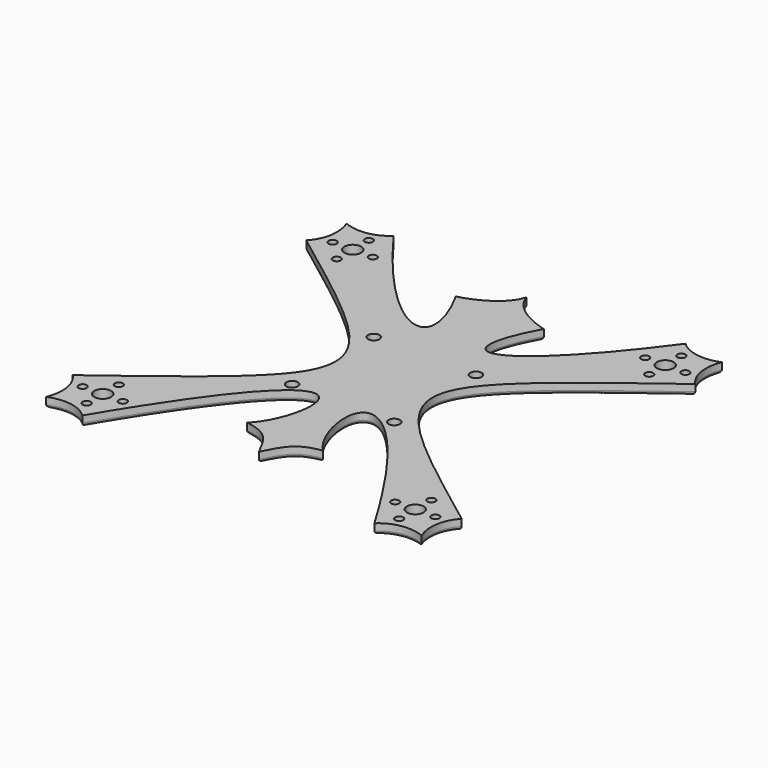
from build123d import *

# Parameters (mm, degrees)
F0_R     = 1.2
F0_R_2   = 2.5
F0_R_3   = 1.7
F1_DEPTH = 3
F2_R     = 1


with BuildPart() as f1:
    # F0 (on Top) → F1 (new body)
    with BuildSketch(Plane.XY):
        with BuildLine():
            add(Edge.make_bspline(
                [(0, 53.212047), (1.509074, 47.794189), (8.439403, 44.375323), (13.141073, 43.245103)],
                knots=[0, 0, 0, 0, 16.493264, 16.493264, 16.493264, 16.493264], degree=3))
            add(Edge.make_bspline(
                [(0, 53.212047), (-1.509074, 47.794189), (-8.439403, 44.375323), (-13.141073, 43.245103)],
                knots=[0, 0, 0, 0, 16.493264, 16.493264, 16.493264, 16.493264], degree=3))
            add(Edge.make_bspline(
                [(-13.141073, 43.245103), (0, 19.25474), (-13.632392, 17.137229), (-43.599002, 58.096636)],
                knots=[0, 0, 0, 0, 33.885889, 33.885889, 33.885889, 33.885889], degree=3))
            add(Edge.make_bspline(
                [(-43.599002, 58.096636), (-47.079999, 54.727927), (-52.244078, 54.448478), (-56.069316, 56.069316)],
                knots=[0, 0, 0, 0, 12.634032, 12.634032, 12.634032, 12.634032], degree=3))
            add(Edge.make_bspline(
                [(-58.096636, 43.599002), (-54.727927, 47.079999), (-54.448478, 52.244078), (-56.069316, 56.069316)],
                knots=[0, 0, 0, 0, 12.634032, 12.634032, 12.634032, 12.634032], degree=3))
            add(Edge.make_bspline(
                [(-58.096636, 43.599002), (0, 0), (0, 0), (-58.096636, -43.599002)],
                knots=[0, 0, 0, 0, 87.198004, 87.198004, 87.198004, 87.198004], degree=3))
            add(Edge.make_bspline(
                [(-58.096636, -43.599002), (-54.727927, -47.079999), (-54.448478, -52.244078), (-56.069316, -56.069316)],
                knots=[0, 0, 0, 0, 12.634032, 12.634032, 12.634032, 12.634032], degree=3))
            add(Edge.make_bspline(
                [(-43.599002, -58.096636), (-47.079999, -54.727927), (-52.244078, -54.448478), (-56.069316, -56.069316)],
                knots=[0, 0, 0, 0, 12.634032, 12.634032, 12.634032, 12.634032], degree=3))
            add(Edge.make_bspline(
                [(-11.338834, -36.930665), (0, -25.892753), (0, 15.25), (-43.599002, -58.096636)],
                knots=[0, 0, 0, 0, 38.583893, 38.583893, 38.583893, 38.583893], degree=3))
            add(Edge.make_bspline(
                [(0, -46.669048), (-3.115391, -40.605467), (-4.421988, -37.992276), (-11.338834, -36.930665)],
                knots=[0, 0, 0, 0, 14.946747, 14.946747, 14.946747, 14.946747], degree=3))
            add(Edge.make_bspline(
                [(0, -46.669048), (3.115391, -40.605467), (4.421988, -37.992276), (11.338834, -36.930665)],
                knots=[0, 0, 0, 0, 14.946747, 14.946747, 14.946747, 14.946747], degree=3))
            add(Edge.make_bspline(
                [(11.338834, -36.930665), (0, -25.892753), (0, 15.25), (43.599002, -58.096636)],
                knots=[0, 0, 0, 0, 38.583893, 38.583893, 38.583893, 38.583893], degree=3))
            add(Edge.make_bspline(
                [(43.599002, -58.096636), (47.079999, -54.727927), (52.244078, -54.448478), (56.069316, -56.069316)],
                knots=[0, 0, 0, 0, 12.634032, 12.634032, 12.634032, 12.634032], degree=3))
            add(Edge.make_bspline(
                [(58.096636, -43.599002), (54.727927, -47.079999), (54.448478, -52.244078), (56.069316, -56.069316)],
                knots=[0, 0, 0, 0, 12.634032, 12.634032, 12.634032, 12.634032], degree=3))
            add(Edge.make_bspline(
                [(58.096636, 43.599002), (0, 0), (0, 0), (58.096636, -43.599002)],
                knots=[0, 0, 0, 0, 87.198004, 87.198004, 87.198004, 87.198004], degree=3))
            add(Edge.make_bspline(
                [(58.096636, 43.599002), (54.727927, 47.079999), (54.448478, 52.244078), (56.069316, 56.069316)],
                knots=[0, 0, 0, 0, 12.634032, 12.634032, 12.634032, 12.634032], degree=3))
            add(Edge.make_bspline(
                [(43.599002, 58.096636), (47.079999, 54.727927), (52.244078, 54.448478), (56.069316, 56.069316)],
                knots=[0, 0, 0, 0, 12.634032, 12.634032, 12.634032, 12.634032], degree=3))
            add(Edge.make_bspline(
                [(13.141073, 43.245103), (0, 19.25474), (13.632392, 17.137229), (43.599002, 58.096636)],
                knots=[0, 0, 0, 0, 33.885889, 33.885889, 33.885889, 33.885889], degree=3))
        make_face()
        with Locations((-46.669048, -52.669048)):
            Circle(F0_R, mode=Mode.SUBTRACT)
        with Locations((-52.669048, -46.669048)):
            Circle(F0_R, mode=Mode.SUBTRACT)
        with Locations((-46.669048, -46.669048)):
            Circle(F0_R_2, mode=Mode.SUBTRACT)
        with Locations((-40.669048, -46.669048)):
            Circle(F0_R, mode=Mode.SUBTRACT)
        with Locations((-46.669048, -40.669048)):
            Circle(F0_R, mode=Mode.SUBTRACT)
        with Locations((-15.25, -15.25)):
            Circle(F0_R_3, mode=Mode.SUBTRACT)
        with Locations((40.669048, -46.669048)):
            Circle(F0_R, mode=Mode.SUBTRACT)
        with Locations((46.669048, -52.669048)):
            Circle(F0_R, mode=Mode.SUBTRACT)
        with Locations((46.669048, -46.669048)):
            Circle(F0_R_2, mode=Mode.SUBTRACT)
        with Locations((52.669048, -46.669048)):
            Circle(F0_R, mode=Mode.SUBTRACT)
        with Locations((46.669048, -40.669048)):
            Circle(F0_R, mode=Mode.SUBTRACT)
        with Locations((15.25, -15.25)):
            Circle(F0_R_3, mode=Mode.SUBTRACT)
        with Locations((-15.25, 15.25)):
            Circle(F0_R_3, mode=Mode.SUBTRACT)
        with Locations((-46.669048, 40.669048)):
            Circle(F0_R, mode=Mode.SUBTRACT)
        with Locations((-52.669048, 46.669048)):
            Circle(F0_R, mode=Mode.SUBTRACT)
        with Locations((-46.669048, 46.669048)):
            Circle(F0_R_2, mode=Mode.SUBTRACT)
        with Locations((-46.669048, 52.669048)):
            Circle(F0_R, mode=Mode.SUBTRACT)
        with Locations((-40.669048, 46.669048)):
            Circle(F0_R, mode=Mode.SUBTRACT)
        with Locations((15.25, 15.25)):
            Circle(F0_R_3, mode=Mode.SUBTRACT)
        with Locations((46.669048, 40.669048)):
            Circle(F0_R, mode=Mode.SUBTRACT)
        with Locations((40.669048, 46.669048)):
            Circle(F0_R, mode=Mode.SUBTRACT)
        with Locations((46.669048, 46.669048)):
            Circle(F0_R_2, mode=Mode.SUBTRACT)
        with Locations((52.669048, 46.669048)):
            Circle(F0_R, mode=Mode.SUBTRACT)
        with Locations((46.669048, 52.669048)):
            Circle(F0_R, mode=Mode.SUBTRACT)
    extrude(amount=F1_DEPTH)

    # F2
    f2_edges = [f1.edges().sort_by_distance(p)[0] for p in [
        (22.129819, 33.018611, 0),
        (49.519486, 55.237665, 0),
        (55.237665, 49.519486, 0),
        (14.524178, 0.02151, 0),
        (-14.524178, 0.02151, 0),
        (-22.129819, 33.018611, 0),
        (-5.301016, 46.66915, 0),
        (5.301016, 46.66915, 0),
        (-20.662926, -24.601994, 0),
        (-49.519486, -55.237665, 0),
        (-55.237665, -49.519486, 0),
        (20.662926, -24.601994, 0),
        (49.519486, -55.237665, 0),
        (55.237665, -49.519486, 0),
        (4.183761, -39.983359, 0),
        (-4.183761, -39.983359, 0),
        (-49.519486, 55.237665, 0),
        (-55.237665, 49.519486, 0),
    ]]
    fillet(f2_edges, radius=F2_R)


solid = f1.part
